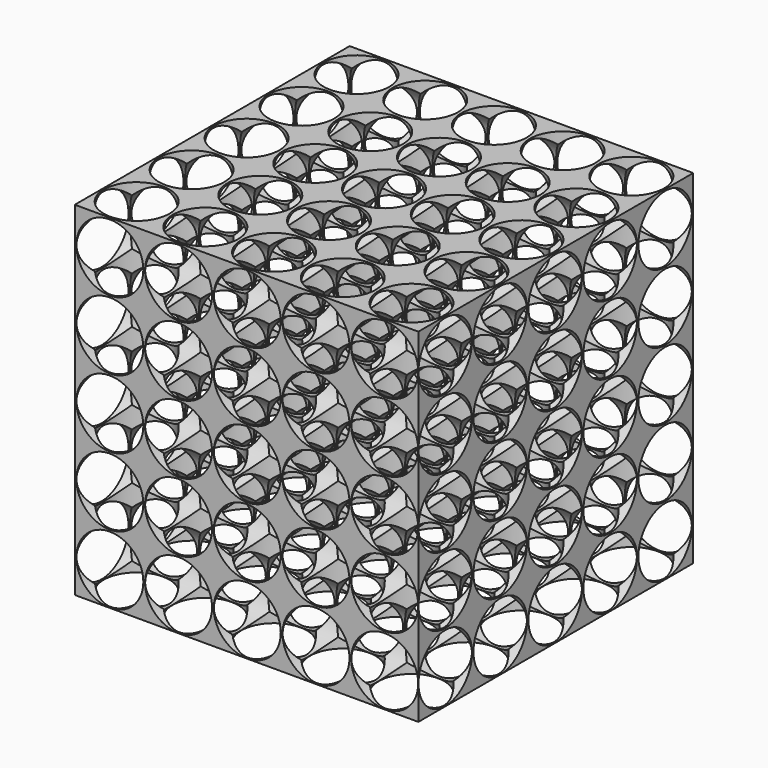
from build123d import *

# Parameters (mm, degrees)
F0_W     = 100
F0_H     = 100
F1_DEPTH = 50
F2_R     = 9.55
F3_DEPTH = 100.001
F4_R     = 9.75
F5_DEPTH = 100.001
F6_R     = 9.75
F7_DEPTH = 100.001


with BuildPart() as f1:
    # F0 (on Top) → F1 (new body, symmetric)
    with BuildSketch(Plane.XY):
        Rectangle(F0_W, F0_H)
    extrude(amount=F1_DEPTH, both=True)

    # F2 (on face) → F3 (cut, through all)
    with BuildSketch(Plane.XY.offset(50)):
        with Locations((-40, 40)):
            Circle(F2_R)
        with Locations((-40, 20)):
            Circle(F2_R)
        with Locations((-40, 0)):
            Circle(F2_R)
        with Locations((-40, -20)):
            Circle(F2_R)
        with Locations((-40, -40)):
            Circle(F2_R)
        with Locations((-20, 40)):
            Circle(F2_R)
        with Locations((-20, 20)):
            Circle(F2_R)
        with Locations((-20, 0)):
            Circle(F2_R)
        with Locations((-20, -20)):
            Circle(F2_R)
        with Locations((-20, -40)):
            Circle(F2_R)
        with Locations((0, 40)):
            Circle(F2_R)
        with Locations((0, 20)):
            Circle(F2_R)
        Circle(F2_R)
        with Locations((0, -20)):
            Circle(F2_R)
        with Locations((0, -40)):
            Circle(F2_R)
        with Locations((20, 40)):
            Circle(F2_R)
        with Locations((20, 20)):
            Circle(F2_R)
        with Locations((20, 0)):
            Circle(F2_R)
        with Locations((20, -20)):
            Circle(F2_R)
        with Locations((20, -40)):
            Circle(F2_R)
        with Locations((40, 40)):
            Circle(F2_R)
        with Locations((40, 20)):
            Circle(F2_R)
        with Locations((40, 0)):
            Circle(F2_R)
        with Locations((40, -20)):
            Circle(F2_R)
        with Locations((40, -40)):
            Circle(F2_R)
    extrude(amount=-F3_DEPTH, mode=Mode.SUBTRACT)

    # F4 (on face) → F5 (cut, through all)
    with BuildSketch(Plane(origin=(-50, 0, 0), x_dir=(0, -1, 0), z_dir=(-1, 0, 0))):
        with Locations((-39.8, 39.8)):
            Circle(F4_R)
        with Locations((-39.8, 19.8)):
            Circle(F4_R)
        with Locations((-39.8, -0.2)):
            Circle(F4_R)
        with Locations((-39.8, -20.2)):
            Circle(F4_R)
        with Locations((-39.8, -40.2)):
            Circle(F4_R)
        with Locations((-19.8, 39.8)):
            Circle(F4_R)
        with Locations((-19.8, 19.8)):
            Circle(F4_R)
        with Locations((-19.8, -0.2)):
            Circle(F4_R)
        with Locations((-19.8, -20.2)):
            Circle(F4_R)
        with Locations((-19.8, -40.2)):
            Circle(F4_R)
        with Locations((0.2, 39.8)):
            Circle(F4_R)
        with Locations((0.2, 19.8)):
            Circle(F4_R)
        with Locations((0.2, -0.2)):
            Circle(F4_R)
        with Locations((0.2, -20.2)):
            Circle(F4_R)
        with Locations((0.2, -40.2)):
            Circle(F4_R)
        with Locations((20.2, 39.8)):
            Circle(F4_R)
        with Locations((20.2, 19.8)):
            Circle(F4_R)
        with Locations((20.2, -0.2)):
            Circle(F4_R)
        with Locations((20.2, -20.2)):
            Circle(F4_R)
        with Locations((20.2, -40.2)):
            Circle(F4_R)
        with Locations((40.2, 39.8)):
            Circle(F4_R)
        with Locations((40.2, 19.8)):
            Circle(F4_R)
        with Locations((40.2, -0.2)):
            Circle(F4_R)
        with Locations((40.2, -20.2)):
            Circle(F4_R)
        with Locations((40.2, -40.2)):
            Circle(F4_R)
    extrude(amount=-F5_DEPTH, mode=Mode.SUBTRACT)

    # F6 (on face) → F7 (cut, through all)
    with BuildSketch(Plane.XZ.offset(50)):
        with Locations((-39.8, 39.8)):
            Circle(F6_R)
        with Locations((-39.8, 19.8)):
            Circle(F6_R)
        with Locations((-39.8, -0.2)):
            Circle(F6_R)
        with Locations((-39.8, -20.2)):
            Circle(F6_R)
        with Locations((-39.8, -40.2)):
            Circle(F6_R)
        with Locations((-19.8, 39.8)):
            Circle(F6_R)
        with Locations((-19.8, 19.8)):
            Circle(F6_R)
        with Locations((-19.8, -0.2)):
            Circle(F6_R)
        with Locations((-19.8, -20.2)):
            Circle(F6_R)
        with Locations((-19.8, -40.2)):
            Circle(F6_R)
        with Locations((0.2, 39.8)):
            Circle(F6_R)
        with Locations((0.2, 19.8)):
            Circle(F6_R)
        with Locations((0.2, -0.2)):
            Circle(F6_R)
        with Locations((0.2, -20.2)):
            Circle(F6_R)
        with Locations((0.2, -40.2)):
            Circle(F6_R)
        with Locations((20.2, 39.8)):
            Circle(F6_R)
        with Locations((20.2, 19.8)):
            Circle(F6_R)
        with Locations((20.2, -0.2)):
            Circle(F6_R)
        with Locations((20.2, -20.2)):
            Circle(F6_R)
        with Locations((20.2, -40.2)):
            Circle(F6_R)
        with Locations((40.2, 39.8)):
            Circle(F6_R)
        with Locations((40.2, 19.8)):
            Circle(F6_R)
        with Locations((40.2, -0.2)):
            Circle(F6_R)
        with Locations((40.2, -20.2)):
            Circle(F6_R)
        with Locations((40.2, -40.2)):
            Circle(F6_R)
    extrude(amount=-F7_DEPTH, mode=Mode.SUBTRACT)


solid = f1.part
